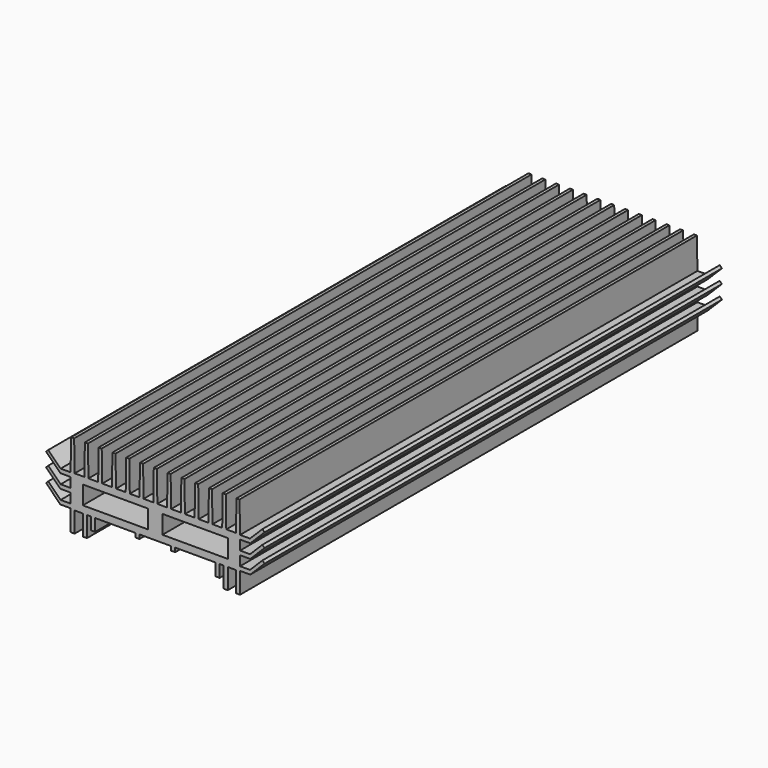
from build123d import *

# Parameters (mm, degrees)
F0_W     = 32
F0_H     = 9
F1_DEPTH = 280
F3_DEPTH = 280


with BuildPart() as f1:
    # F0 (on Front) → F1 (new body)
    with BuildSketch(Plane.XZ):
        Polygon((-41.5, -22.5), (-39.5, -22.5), (-39.5, -12.5), (-35.5, -12.5), (-35.5, -22.5), (-33.5, -22.5), (-33.5, -12.5), (-31.5, -12.5), (-31.5, -18.5), (-29.5, -18.5), (-29.5, -12.5), (-9.75, -12.5), (-9.75, -14.5), (-7.75, -14.5), (-7.75, -12.5), (0, -12.5), (0, 18.5), (-0.75, 18.5), (-1.000473, 3.5), (-5.75, 3.5), (-5.999527, 18.5), (-7.499527, 18.5), (-7.75, 3.5), (-12.5, 3.5), (-12.749527, 18.5), (-14.249527, 18.5), (-14.5, 3.5), (-19.25, 3.5), (-19.499527, 18.5), (-20.999527, 18.5), (-21.25, 3.5), (-26, 3.5), (-26.249527, 18.5), (-27.749527, 18.5), (-28, 3.5), (-32.75, 3.5), (-32.999527, 18.5), (-34.499527, 18.5), (-34.75, 3.5), (-39.5, 3.5), (-39.749527, 18.5), (-41.249527, 18.5), (-41.5, 3.5), align=None)
        with Locations((-19.5, -4.5)):
            Rectangle(F0_W, F0_H, mode=Mode.SUBTRACT)
    extrude(amount=F1_DEPTH)

    # F2 (on Front) → F3 (join)
    with BuildSketch(Plane.XZ):
        Polygon((-46.5, -12.194781), (-41.5, -12.194781), (-41.5, -10.194781), (-46.37868, -10.194781), (-52.43934, -4.134121), (-53.5, -5.194781), align=None)
        Polygon((-53.5, 1.555219), (-46.5, -5.444781), (-41.5, -5.444781), (-41.5, -3.444781), (-46.37868, -3.444781), (-52.43934, 2.615879), align=None)
        Polygon((-53.5, 8.305219), (-46.5, 1.305219), (-41.5, 1.305219), (-41.5, 3.305219), (-46.37868, 3.305219), (-52.43934, 9.365879), align=None)
    extrude(amount=F3_DEPTH)

    # F4: F1 across face


with BuildPart() as f1_1:
    add(f1.part)
    add(f1.part.mirror(Plane(origin=(0, -140, 3), x_dir=(0, 1, 0), z_dir=(1, 0, 0))))


solid = f1_1.part
